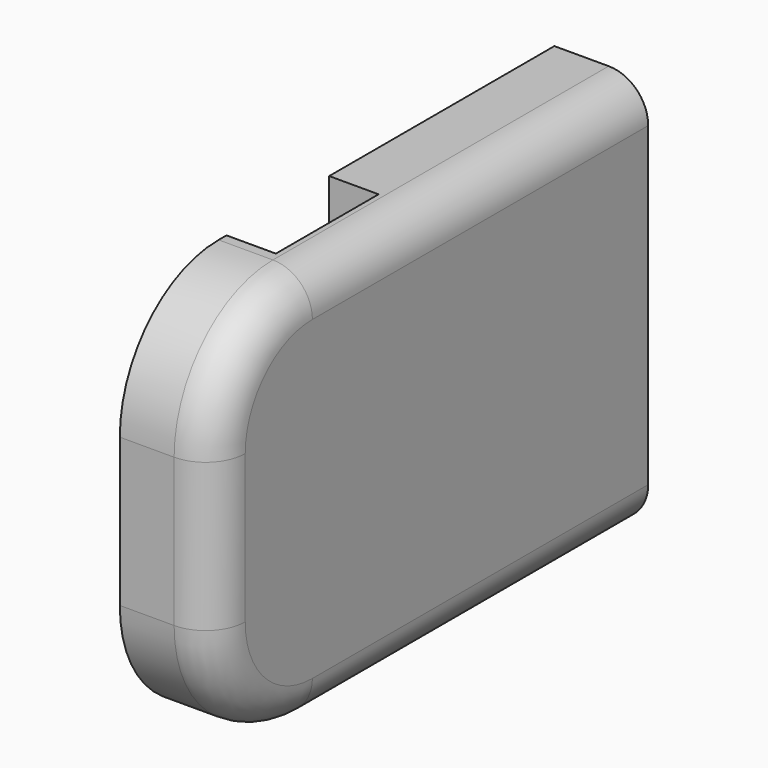
from build123d import *

# Parameters (mm, degrees)
F1_DEPTH = 19
F3_DEPTH = 10
F4_R     = 8


with BuildPart() as f1:
    # F0 (on Right) → F1 (new body)
    with BuildSketch(Plane.YZ):
        with BuildLine():
            Line((-85, 0), (0, 0))
            Line((0, 0), (0, 80))
            Line((0, 80), (-85, 80))
            ThreePointArc((-85, 80), (-102.67767, 72.67767), (-110, 55))
            Line((-110, 55), (-110, 25))
            ThreePointArc((-110, 25), (-102.67767, 7.32233), (-85, 0))
        make_face()
    extrude(amount=F1_DEPTH)

    # F2 (on face) → F3 (cut)
    with BuildSketch(Plane(origin=(0, 0, 0), x_dir=(0, -1, 0), z_dir=(-1, 0, 0))):
        with BuildLine():
            Line((57, 80), (57, 40))
            ThreePointArc((57, 40), (70, 27), (83, 40))
            Line((83, 40), (83, 80))
            Line((83, 80), (57, 80))
        make_face()
    extrude(amount=-F3_DEPTH, mode=Mode.SUBTRACT)

    # F4
    f4_edges = [f1.edges().sort_by_distance(p)[0] for p in [
        (19, -42.5, 80),
    ]]
    fillet(f4_edges, radius=F4_R)


solid = f1.part
